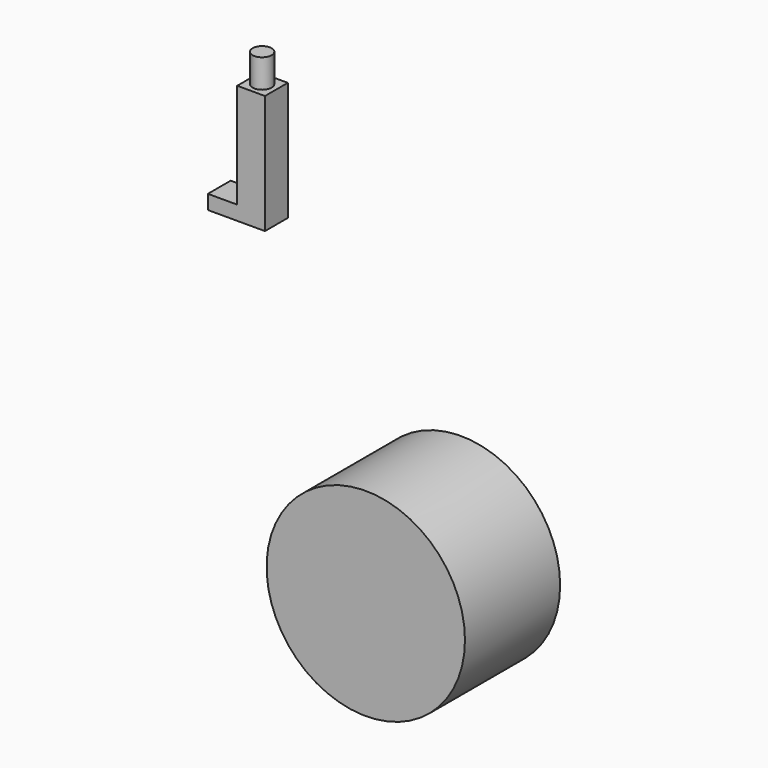
from build123d import *

# Parameters (mm, degrees)
F0_R     = 20.843436
F1_DEPTH = 25
F3_DEPTH = 6
F4_R     = 2
F5_DEPTH = 6


with BuildPart() as f1:
    # F0 (on Front) → F1 (new body)
    with BuildSketch(Plane.XZ):
        Circle(F0_R)
    extrude(amount=F1_DEPTH)


with BuildPart() as f3:
    # F2 (on Front) → F3 (new body)
    with BuildSketch(Plane.XZ):
        Polygon((-36.388556, 49.337354), (-36.388556, 74.337354), (-42.221386, 74.337354), (-42.221386, 52.337354), (-48.388556, 52.337354), (-48.388556, 49.337354), align=None)
    extrude(amount=F3_DEPTH)

    # F4 (on face) → F5 (join)
    with BuildSketch(Plane.XY.offset(74.337354)):
        with Locations((-39.388556, -3)):
            Circle(F4_R)
    extrude(amount=F5_DEPTH)


solid = Compound([f1.part, f3.part])
